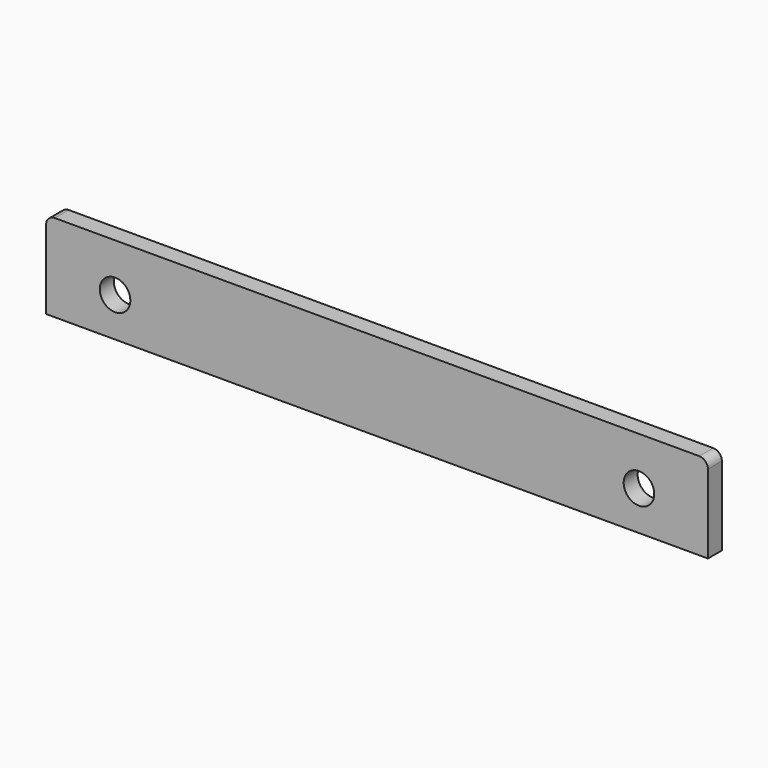
from build123d import *

# Parameters (mm, degrees)
F0_W     = 75.8
F0_H     = 10
F1_DEPTH = 2
F2_R     = 1
F4_D     = 3.5


with BuildPart() as f1:
    # F0 (on Front) → F1 (new body)
    with BuildSketch(Plane.XZ):
        Rectangle(F0_W, F0_H)
    extrude(amount=F1_DEPTH)

    # F2
    f2_edges = [f1.edges().sort_by_distance(p)[0] for p in [
        (-37.9, -1, 5),
        (37.9, -1, 5),
    ]]
    fillet(f2_edges, radius=F2_R)

    # F4 (through all)
    with Locations(Plane.XZ.offset(2)):
        with Locations((30, -0.5), (-30, -0.5)):
            Hole(F4_D / 2)


solid = f1.part
